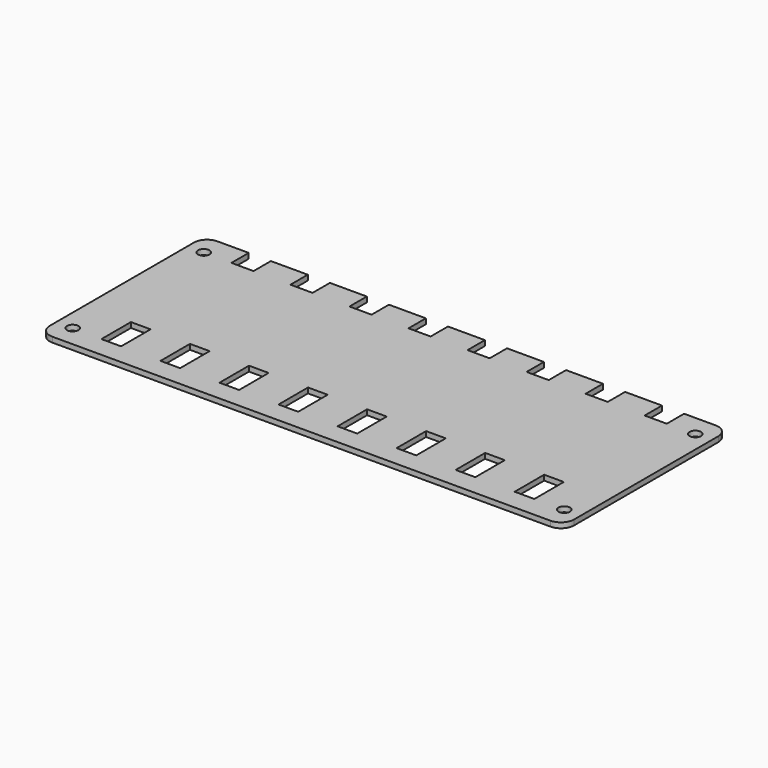
from build123d import *

# Parameters (mm, degrees)
PAD_DEPTH              = 1.6
SKETCH001_R            = 1.75
POCKET_DEPTH           = 5
SKETCH003_W            = 6
SKETCH003_H            = 11.25
POCKET001_DEPTH        = 5
LINEARPATTERN_COUNT    = 8
LINEARPATTERN_PITCH    = 18.014286
SKETCH004_W            = 6.75
SKETCH004_H            = 7.75
POCKET002_DEPTH        = 5
LINEARPATTERN001_COUNT = 8
LINEARPATTERN001_PITCH = 18.014286


with BuildPart() as part:
    # Sketch → Pad (new body)
    with BuildSketch(Plane.XY):
        with BuildLine():
            Line((-76, 31.5), (76, 31.5))
            ThreePointArc((80, 27.5), (78.828427, 30.328427), (76, 31.5))
            Line((80, 27.5), (80, -27.5))
            ThreePointArc((76, -31.5), (78.828427, -30.328427), (80, -27.5))
            Line((76, -31.5), (-76, -31.5))
            ThreePointArc((-80, -27.5), (-78.828427, -30.328427), (-76, -31.5))
            Line((-80, -27.5), (-80, 27.5))
            ThreePointArc((-76, 31.5), (-78.828427, 30.328427), (-80, 27.5))
        make_face()
    extrude(amount=-PAD_DEPTH)

    # Sketch001 → Pocket (cut)
    with BuildSketch(Plane.XY):
        with Locations((75, 25)):
            Circle(SKETCH001_R)
        with Locations((-75, 25)):
            Circle(SKETCH001_R)
        with Locations((75, -25)):
            Circle(SKETCH001_R)
        with Locations((-75, -25)):
            Circle(SKETCH001_R)
    extrude(amount=-POCKET_DEPTH, mode=Mode.SUBTRACT)

    # Sketch003 → Pocket001 (cut)
    with BuildSketch(Plane.XY):
        with Locations((63, -19.535)):
            Rectangle(SKETCH003_W, SKETCH003_H)
    pocket001 = extrude(amount=-POCKET001_DEPTH, mode=Mode.SUBTRACT)

    # LinearPattern: Pocket001 ×8
    with Locations(*[(-i * LINEARPATTERN_PITCH, 0, 0) for i in range(1, LINEARPATTERN_COUNT)]):
        add(pocket001, mode=Mode.SUBTRACT)

    # Sketch004 → Pocket002 (cut)
    with BuildSketch(Plane.XY):
        with Locations((63, 28.765)):
            Rectangle(SKETCH004_W, SKETCH004_H)
    pocket002 = extrude(amount=-POCKET002_DEPTH, mode=Mode.SUBTRACT)

    # LinearPattern001: Pocket002 ×8
    with Locations(*[(-i * LINEARPATTERN001_PITCH, 0, 0) for i in range(1, LINEARPATTERN001_COUNT)]):
        add(pocket002, mode=Mode.SUBTRACT)


solid = part.part
